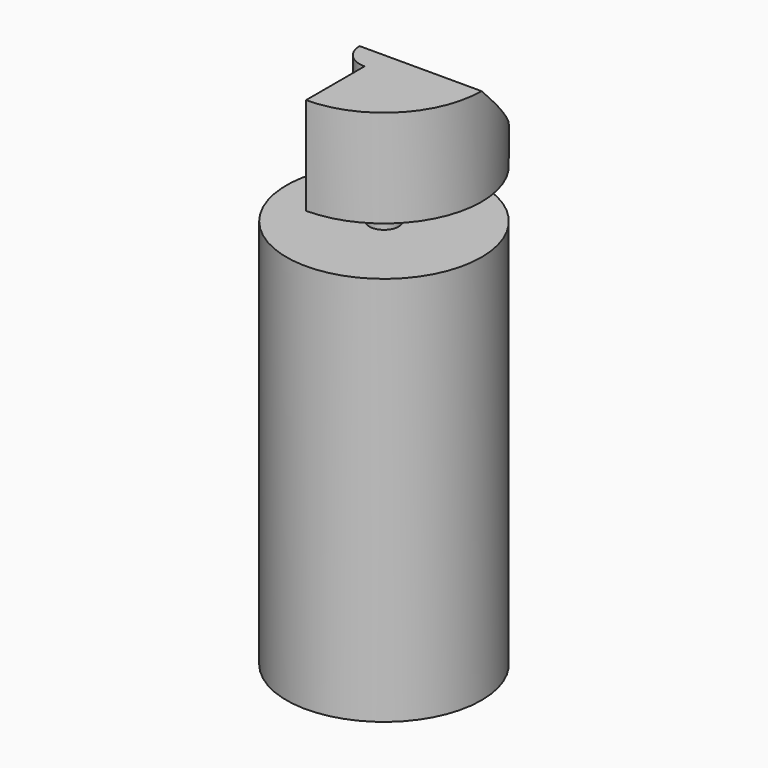
from build123d import *

# Parameters (mm, degrees)
BOX_W             = 4
BOX_H             = 3
BOX_DEPTH         = 2
BOX_ROLL_ANGLE    = -45
CYLINDER001_R     = 0.3
CYLINDER001_DEPTH = 11
CYLINDER_R        = 2
CYLINDER_DEPTH    = 8
CYLINDER002_R     = 0.5
CYLINDER002_DEPTH = 2
PAD_DEPTH         = 2


with BuildPart() as obj1:
    # Box → Box (new body)
    with BuildSketch(Plane.XY):
        with Locations((2, 1.5)):
            Rectangle(BOX_W, BOX_H)
    extrude(amount=BOX_DEPTH)


with BuildPart() as obj1_1:
    # Box roll: moved
    add(obj1.part.rotate(Axis((0, 0, 0), (1, 0, 0)), BOX_ROLL_ANGLE))


with BuildPart() as obj1_2:
    # Box placement: moved
    add(obj1_1.part.moved(Location((-1, 0, 11))))


with BuildPart() as achse:
    # Cylinder001 → Cylinder001 (new body)
    with BuildSketch(Plane.XY):
        Circle(CYLINDER001_R)
    extrude(amount=CYLINDER001_DEPTH)


with BuildPart() as motor:
    # Cylinder → Cylinder (new body)
    with BuildSketch(Plane.XY):
        Circle(CYLINDER_R)
    extrude(amount=CYLINDER_DEPTH)


with BuildPart() as zylinder:
    # Cylinder002 → Cylinder002 (new body)
    with BuildSketch(Plane.XY.offset(9)):
        Circle(CYLINDER002_R)
    extrude(amount=CYLINDER002_DEPTH)


with BuildPart() as cut:
    # Sketch → Pad (new body)
    with BuildSketch(Plane.XY.offset(9)):
        with BuildLine():
            Line((0, 2), (0, -2))
            ThreePointArc((0, -2), (2, 0), (0, 2))
        make_face()
    extrude(amount=PAD_DEPTH)

    # Fusion: union Achse, Motor, Zylinder
    add(achse.part)
    add(motor.part)
    add(zylinder.part)

    # Cut: cut obj1
    add(obj1_2.part, mode=Mode.SUBTRACT)


solid = cut.part
